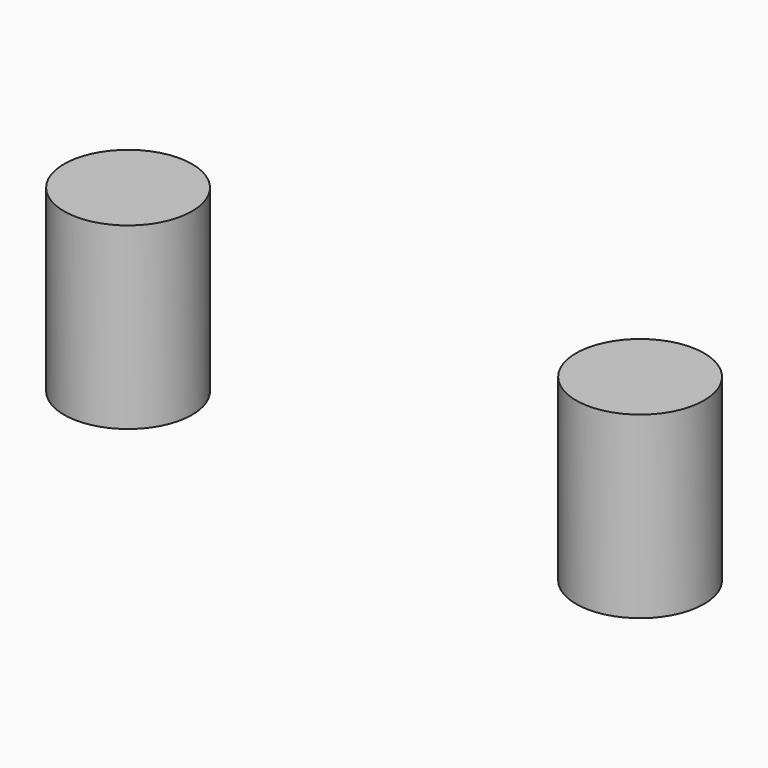
from build123d import *

# Parameters (mm, degrees)
CYLINDER020_R     = 2.5
CYLINDER020_DEPTH = 7
CYLINDER019_R     = 2.5
CYLINDER019_DEPTH = 7


with BuildPart() as cylinder020:
    # Cylinder020 → Cylinder020 (new body)
    with BuildSketch(Plane(origin=(10, 10, 0), x_dir=(1, 0, 0), z_dir=(0, 0, 1))):
        Circle(CYLINDER020_R)
    extrude(amount=CYLINDER020_DEPTH)


with BuildPart() as fusion003003006002:
    # Cylinder019 → Cylinder019 (new body)
    with BuildSketch(Plane(origin=(-10, 10, 0), x_dir=(1, 0, 0), z_dir=(0, 0, 1))):
        Circle(CYLINDER019_R)
    extrude(amount=CYLINDER019_DEPTH)

    # Fusion003003006002: union Cylinder020
    add(cylinder020.part)


solid = fusion003003006002.part
